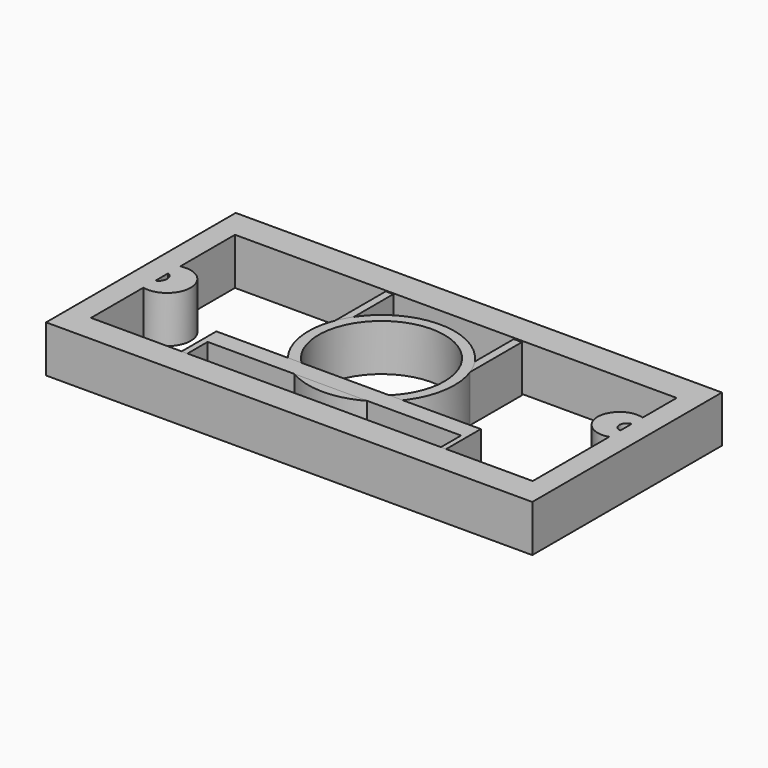
from build123d import *

# Parameters (mm, degrees)
F0_W      = 263.8747543097
F0_H      = 128.652587533
F0_W_2    = 239.7237867117
F0_H_2    = 97.6777933538
F1_DEPTH  = 25.4
F2_R      = 12.8476625459
F2_R_2    = 4.6622157097
F3_DEPTH  = 25.4
F4_R      = 11.844977251
F4_R_2    = 3.8304403424
F5_DEPTH  = 25.4
F6_W      = 4.1014142334
F6_H      = 38.9634296298
F7_DEPTH  = 25.4
F6_W_2    = 4.4431947172
F6_H_2    = 38.6216454208
F8_R      = 39.6820036639
F8_R_2    = 34.1520486265
F9_DEPTH  = 25.4
F10_W     = 137.5536173582
F10_H     = 7.035991177
F10_W_2   = 3.1661912799
F10_H_2   = 13.7201808393
F10_W_3   = 2.8143897653
F10_H_3   = 2.8143953532
F11_DEPTH = 25.4


with BuildPart() as f1:
    # F0 (on Top) → F1 (new body)
    with BuildSketch(Plane.XY):
        with Locations((-2.9087588191, 1.1933147907)):
            Rectangle(F0_W, F0_H)
        with Locations((-2.6825889945, 0.8015874773)):
            Rectangle(F0_W_2, F0_H_2, mode=Mode.SUBTRACT)
    extrude(amount=F1_DEPTH)

    # F2 (on Top) → F3 (join)
    with BuildSketch(Plane.XY):
        with Locations((-119.6770742536, 0)):
            Circle(F2_R)
        with Locations((-124.3392899632, 0)):
            Circle(F2_R_2, mode=Mode.SUBTRACT)
    extrude(amount=F3_DEPTH)

    # F4 (on Top) → F5 (join)
    with BuildSketch(Plane.XY):
        with Locations((113.6802583933, 15.2354836464)):
            Circle(F4_R)
        with Locations((117.5106987357, 15.2354836464)):
            Circle(F4_R_2, mode=Mode.SUBTRACT)
    extrude(amount=F5_DEPTH)


with BuildPart() as f7:
    # F6 (on Top) → F7 (new body)
    with BuildSketch(Plane.XY):
        with Locations((-38.1400566548, 29.5064225793)):
            Rectangle(F6_W, F6_H)
    extrude(amount=F7_DEPTH)


with BuildPart() as f7b:
    # F6 (on Top) → F7, piece 2 (new body)
    with BuildSketch(Plane.XY):
        with Locations((31.7548643798, 29.3355304748)):
            Rectangle(F6_W_2, F6_H_2)
    extrude(amount=F7_DEPTH)


with BuildPart() as f9:
    # F8 (on Top) → F9 (new body)
    with BuildSketch(Plane.XY):
        with Locations((-3.325571306, 0)):
            Circle(F8_R)
        with Locations((-3.325571306, 0)):
            Circle(F8_R_2, mode=Mode.SUBTRACT)
    extrude(amount=F9_DEPTH)


with BuildPart() as f11:
    # F10 (on Top) → F11 (new body)
    with BuildSketch(Plane.XY):
        with Locations((-1.3906732202, -30.8535294607)):
            Rectangle(F10_W, F10_H)
        with Locations((-71.7505775392, -41.2316154689)):
            Rectangle(F10_W_2, F10_H_2)
        Polygon((-70.1674818993, -34.3715250492), (-70.1674818993, -27.3355338722), (-70.1674818993, -24.521138519), (-73.3336731791, -24.521138519), (-73.3336731791, -34.3715250492), align=None)
        with Locations((68.7933303416, -41.2316154689)):
            Rectangle(F10_W_3, F10_H_2)
        Polygon((67.3861354589, -24.521138519), (67.3861354589, -27.3355338722), (67.3861354589, -34.3715250492), (70.2005252242, -34.3715250492), (70.2005252242, -24.521138519), align=None)
        with Locations((-1.3906732202, -25.9283361956)):
            Rectangle(F10_W, F10_H_3)
    extrude(amount=F11_DEPTH)


solid = Compound([f1.part, f7.part, f7b.part, f9.part, f11.part])
